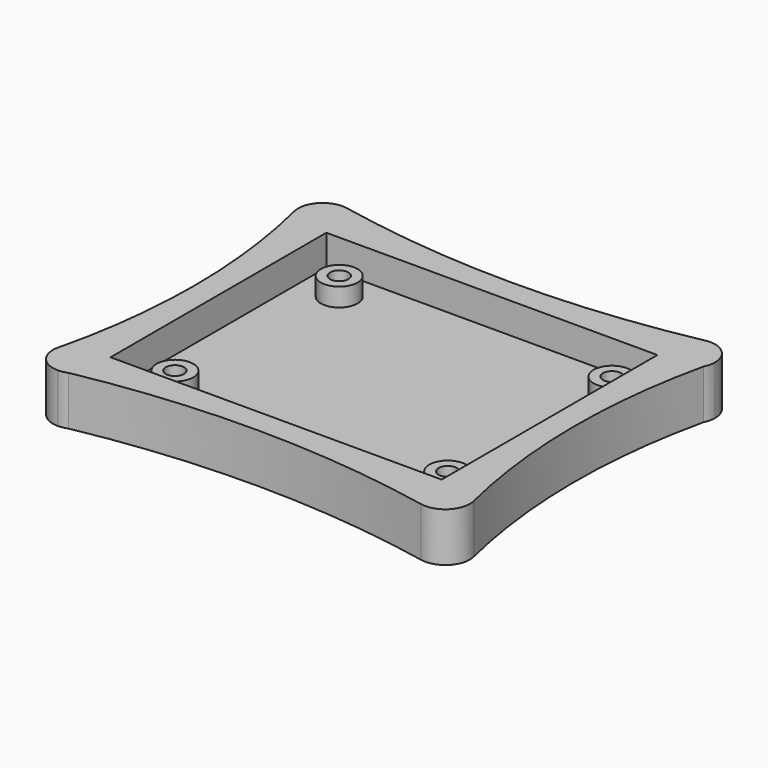
from build123d import *

# Parameters (mm, degrees)
F0_W     = 60
F0_H     = 50
F1_DEPTH = 8
F2_T     = -3
F3_R     = 3
F4_DEPTH = 6
F6_D     = 3
F6_DEPTH = 4
F6_TIP   = 0.9012909285
F7_W     = 60
F7_H     = 50
F8_DEPTH = 8


with BuildPart() as f1:
    # F0 (on Top) → F1 (new body)
    with BuildSketch(Plane.XY):
        Rectangle(F0_W, F0_H)
    extrude(amount=F1_DEPTH)

    # F2
    f2_openings = [f1.faces().sort_by_distance(p)[0] for p in [
        (0, 0, 8),
    ]]
    offset(amount=F2_T, openings=f2_openings)

    # F3 (on face) → F4 (join)
    with BuildSketch(Plane.XY):
        with Locations((-20.7, -16.75)):
            Circle(F3_R)
        with Locations((-20.7, 16.75)):
            Circle(F3_R)
        with Locations((23.8, -16.75)):
            Circle(F3_R)
        with Locations((23.8, 16.75)):
            Circle(F3_R)
    extrude(amount=F4_DEPTH)

    # F6
    with Locations(Plane.XY.offset(6)):
        with Locations((23.8, 16.75), (23.8, -16.75), (-20.7, -16.75), (-20.7, 16.75)):
            Hole(F6_D / 2, depth=F6_DEPTH)
            with Locations((0, 0, -(F6_DEPTH + F6_TIP / 2))):  # 118° drill point
                Cone(0, F6_D / 2, F6_TIP, mode=Mode.SUBTRACT)

    # F7 (on face) → F8 (join, through all)
    with BuildSketch(Plane.XY):
        with BuildLine():
            ThreePointArc((29.2079207921, 28.9207920792), (0, 26), (-29.2079207921, 28.9207920792))
            ThreePointArc((-29.2079207921, 28.9207920792), (-32.8837617935, 27.7719880805), (-33.8864353312, 24.0536277603))
            ThreePointArc((-33.8864353312, 24.0536277603), (-31, 0), (-33.8864353312, -24.0536277603))
            ThreePointArc((-33.8864353312, -24.0536277603), (-33.1452733553, -27.4712862077), (-30, -29))
            ThreePointArc((-30, -29), (-29.2382778582, -28.8471228354), (-28.475771577, -28.698206013))
            ThreePointArc((-28.475771577, -28.698206013), (0.379534182, -26.0011232313), (29.2130634934, -28.9218274993))
            ThreePointArc((29.2130634934, -28.9218274993), (32.8855788702, -27.7700964936), (33.8864353312, -24.0536277603))
            ThreePointArc((33.8864353312, -24.0536277603), (31.0022348413, -0.4407544994), (33.5761126117, 23.2079568676))
            ThreePointArc((33.5761126117, 23.2079568676), (33.7840774597, 24.1049195845), (34, 25))
            ThreePointArc((34, 25), (32.532951161, 28.0958291968), (29.2079207921, 28.9207920792))
        make_face()
        Rectangle(F7_W, F7_H, mode=Mode.SUBTRACT)
        with BuildLine():
            ThreePointArc((33.5761126117, 23.2079568676), (33.8925859301, 24.079253142), (34, 25))
            ThreePointArc((34, 25), (33.7840774597, 24.1049195845), (33.5761126117, 23.2079568676))
        make_face()
        with BuildLine():
            ThreePointArc((-28.475771577, -28.698206013), (-29.2382778582, -28.8471228354), (-30, -29))
            ThreePointArc((-30, -29), (-29.2230907556, -28.9238261972), (-28.475771577, -28.698206013))
        make_face()
    extrude(amount=F8_DEPTH)


solid = f1.part
